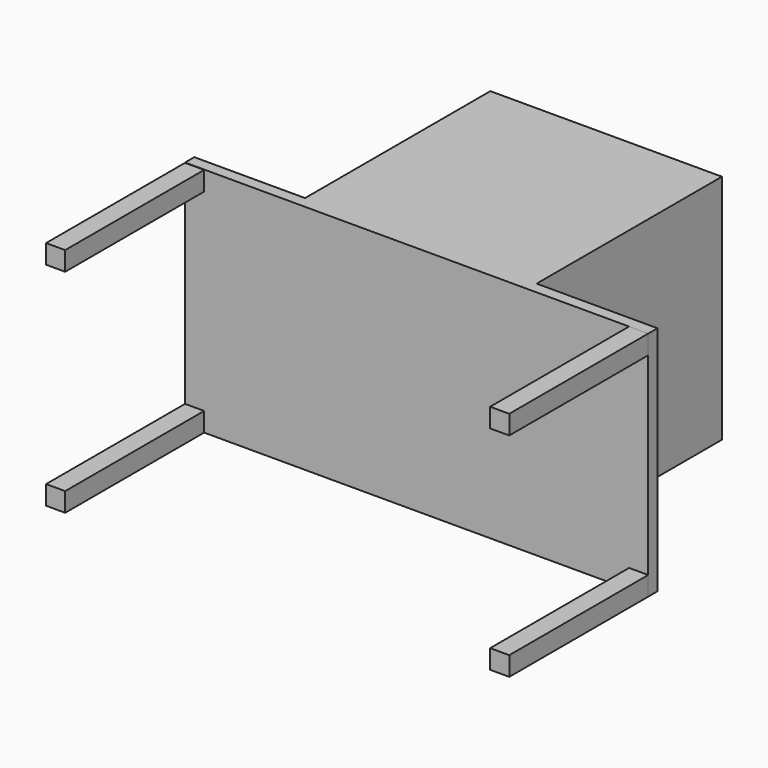
from build123d import *

# Parameters (mm, degrees)
F0_W     = 2438.4
F0_H     = 1219.2
F1_DEPTH = 60.96
F3_W     = 100.584
F3_H     = 100.584
F4_DEPTH = 914.4
F5_W     = 1219.2
F5_H     = 1219.2
F6_DEPTH = 1219.2
F7_W     = 1199.515164
F7_H     = 1194.27278
F8_DEPTH = 1188.72


with BuildPart() as f1:
    # F0 (on Front) → F1 (new body)
    with BuildSketch(Plane.XZ):
        with Locations((1219.2, 609.6)):
            Rectangle(F0_W, F0_H)
    extrude(amount=F1_DEPTH)

    # F3 (on face) → F4 (join)
    with BuildSketch(Plane.XZ.offset(60.96)):
        with Locations((50.292, 50.292)):
            Rectangle(F3_W, F3_H)
        with Locations((50.292, 1167.305365)):
            Rectangle(F3_W, F3_H)
        with Locations((2388.089433, 1168.932334)):
            Rectangle(F3_W, F3_H)
        with Locations((2388.196945, 50.215379)):
            Rectangle(F3_W, F3_H)
    extrude(amount=F4_DEPTH)

    # F5 (on face) → F6 (join)
    with BuildSketch(Plane(origin=(0, 0, 0), x_dir=(-1, 0, 0), z_dir=(0, 1, 0))):
        with Locations((-1192.721315, 609.6)):
            Rectangle(F5_W, F5_H)
        with Locations((-1192.721315, 609.6)):
            Rectangle(F5_W, F5_H)
    extrude(amount=F6_DEPTH)

    # F7 (on face) → F8 (cut)
    with BuildSketch(Plane(origin=(0, 0, 0), x_dir=(1, 0, 0), z_dir=(0, 0, -1))):
        with Locations((1193.118066, -611.494291)):
            Rectangle(F7_W, F7_H)
    extrude(amount=-F8_DEPTH, mode=Mode.SUBTRACT)


solid = f1.part
